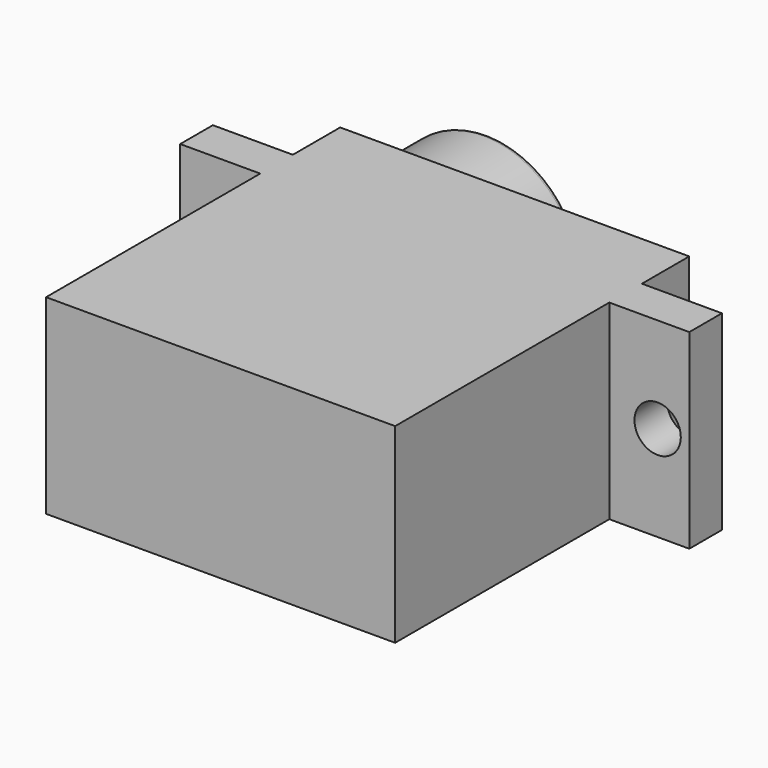
from build123d import *

# Parameters (mm, degrees)
PAD023_DEPTH            = 12.35
PAD022_DEPTH            = 4.17
SKETCH044_R             = 1.5
POCKET016_DEPTH         = 5
FILLET020_R             = 0.3
BODY011_PLACEMENT_ANGLE = 180


with BuildPart() as part:
    # Sketch045 → Pad023 (new body)
    with BuildSketch(Plane.XY):
        Polygon((0, 23.8), (22.6, 23.8), (22.6, 19.97), (27.78, 19.97), (27.78, 17.33), (22.6, 17.33), (22.6, 0), (0, 0), (0, 17.33), (-5.18, 17.33), (-5.18, 19.97), (0, 19.97), align=None)
    extrude(amount=PAD023_DEPTH)

    # Sketch043 (on Face4 of Pad023) → Pad022 (join)
    with BuildSketch(Plane(origin=(0, 23.8, 0), x_dir=(-1, 0, 0), z_dir=(0, 1, 0))):
        with BuildLine():
            ThreePointArc((-10.895586, 8.809617), (-22.55, 6.175), (-10.895586, 3.540383))
            ThreePointArc((-10.895586, 3.540383), (-7.605, 6.175), (-10.895586, 8.809617))
        make_face()
    extrude(amount=PAD022_DEPTH)

    # Sketch044 (on Face10 of Pad022) → Pocket016 (cut)
    with BuildSketch(Plane(origin=(0, 19.97, 0), x_dir=(-1, 0, 0), z_dir=(0, 1, 0))):
        with Locations((-25.73, 6.175)):
            Circle(SKETCH044_R)
        with Locations((3.13, 6.175)):
            Circle(SKETCH044_R)
    extrude(amount=-POCKET016_DEPTH, mode=Mode.SUBTRACT)

    # Fillet020
    fillet020_edges = [part.edges().sort_by_distance(p)[0] for p in [
        (22.55, 27.97, 6.175),
        (7.605, 27.97, 6.175),
    ]]
    fillet(fillet020_edges, radius=FILLET020_R)


with BuildPart() as part_1:
    # Body011 placement: moved
    add(part.part.moved(Location((20.600001, 126.400008, -13.43))).rotate(Axis((20.600001, 126.400008, -13.43), (0, 1, 0)), BODY011_PLACEMENT_ANGLE))


solid = part_1.part
